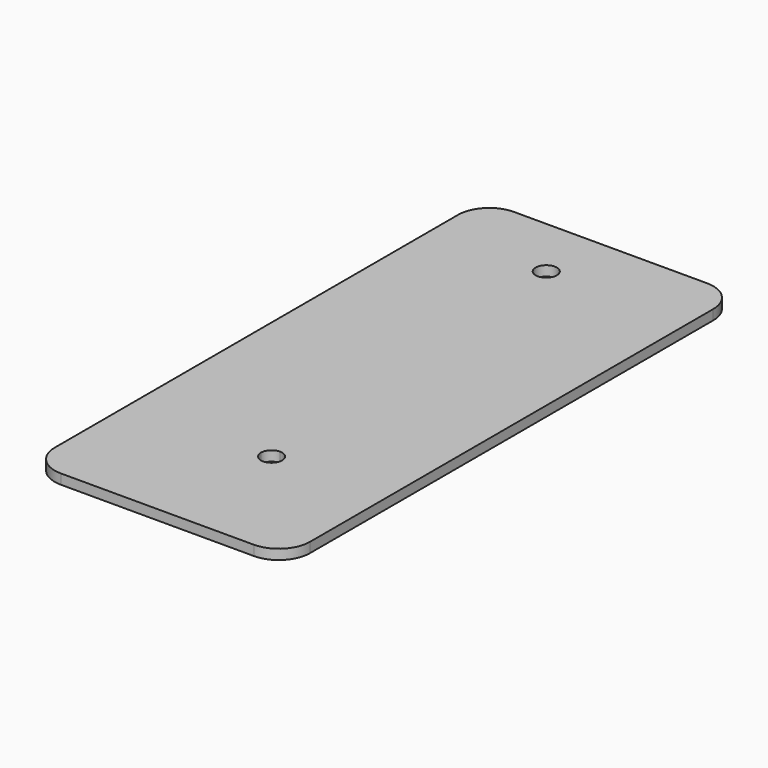
from build123d import *

# Parameters (mm, degrees)
F0_W     = 41
F0_H     = 91
F1_DEPTH = 1.6
F2_R     = 5


with BuildPart() as f1:
    # F0 (on Top) → F1 (new body)
    with BuildSketch(Plane.XY):
        Rectangle(F0_W, F0_H)
        with BuildLine():
            ThreePointArc((-2.25, 33.7), (-3.452082, 36.602082), (-0.55, 35.4))
            Line((-0.55, 35.4), (2.25, 35.4))
            Line((2.25, 35.4), (2.25, -23.7))
            ThreePointArc((2.25, -23.7), (3.452082, -24.197918), (3.95, -25.4))
            ThreePointArc((3.95, -25.4), (2.25, -27.1), (0.55, -25.4))
            Line((0.55, -25.4), (-2.25, -25.4))
            Line((-2.25, -25.4), (-2.25, 33.7))
        make_face(mode=Mode.SUBTRACT)
        with BuildLine():
            Line((2.25, 35.4), (-0.55, 35.4))
            ThreePointArc((-0.55, 35.4), (-1.047918, 34.197918), (-2.25, 33.7))
            Line((-2.25, 33.7), (-2.25, -25.4))
            Line((-2.25, -25.4), (0.55, -25.4))
            ThreePointArc((0.55, -25.4), (1.047918, -24.197918), (2.25, -23.7))
            Line((2.25, -23.7), (2.25, 35.4))
        make_face()
    extrude(amount=F1_DEPTH)

    # F2
    f2_edges = [f1.edges().sort_by_distance(p)[0] for p in [
        (-20.5, 45.5, 0.8),
        (20.5, 45.5, 0.8),
        (20.5, -45.5, 0.8),
        (-20.5, -45.5, 0.8),
    ]]
    fillet(f2_edges, radius=F2_R)


solid = f1.part
